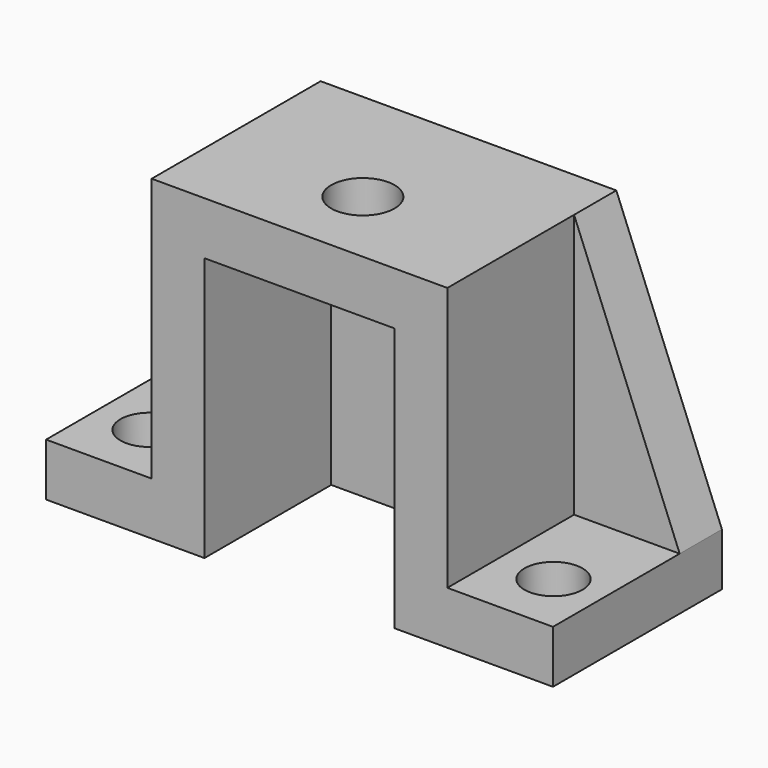
from build123d import *

# Parameters (mm, degrees)
F2_DEPTH = 40
F3_DEPTH = 10
F4_D     = 12
F5_D     = 11
F6_D     = 11


with BuildPart() as f2:
    # F0 (on Front) → F2 (new body)
    with BuildSketch(Plane.XZ):
        Polygon((-48, 10), (-48, 0), (-18, 0), (-18, 50), (18, 50), (18, 0), (48, 0), (48, 10), (28, 10), (28, 60), (-28, 60), (-28, 10), align=None)
    extrude(amount=F2_DEPTH)

    # F0 (on Front) → F3 (join)
    with BuildSketch(Plane.XZ):
        Polygon((48, 10), (28, 60), (28, 10), align=None)
        Polygon((-28, 60), (-48, 10), (-28, 10), align=None)
        Polygon((-18, 50), (-18, 0), (0, 0), (18, 0), (18, 50), align=None)
    extrude(amount=F3_DEPTH)

    # F4 (through all)
    with Locations(Plane(origin=(0, 0, 0), x_dir=(1, 0, 0), z_dir=(0, 0, -1))):
        with Locations((-4.172e-07, 25.0004983976)):
            Hole(F4_D / 2)

    # F5 (through all)
    with Locations(Plane(origin=(0, 0, 0), x_dir=(1, 0, 0), z_dir=(0, 0, -1))):
        with Locations((38.4999995828, 28.0004983976)):
            Hole(F5_D / 2)

    # F6 (through all)
    with Locations(Plane(origin=(0, 0, 0), x_dir=(1, 0, 0), z_dir=(0, 0, -1))):
        with Locations((-38.0000004172, 28.0004983976)):
            Hole(F6_D / 2)


solid = f2.part
